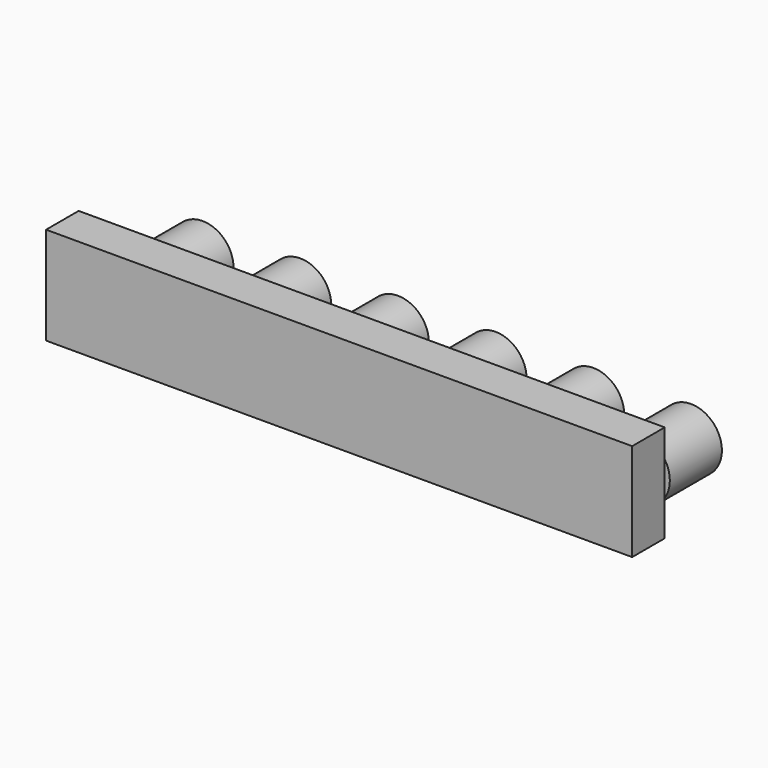
from build123d import *

# Parameters (mm, degrees)
F0_W     = 45.72
F0_H     = 7.62
F1_DEPTH = 3.175
F2_R     = 2.413
F3_DEPTH = 5.08


with BuildPart() as f1:
    # F0 (on Front) → F1 (new body)
    with BuildSketch(Plane.XZ):
        with Locations((22.86, 3.81)):
            Rectangle(F0_W, F0_H)
    extrude(amount=F1_DEPTH)

    # F2 (on Front) → F3 (join)
    with BuildSketch(Plane.XZ):
        with Locations((5.605934, 4.271186)):
            Circle(F2_R)
        with Locations((13.22543, 4.183609)):
            Circle(F2_R)
        with Locations((20.844927, 4.096032)):
            Circle(F2_R)
        with Locations((28.464927, 4.096032)):
            Circle(F2_R)
        with Locations((36.084927, 4.096032)):
            Circle(F2_R)
        with Locations((43.704927, 4.096032)):
            Circle(F2_R)
    extrude(amount=-F3_DEPTH)


solid = f1.part
